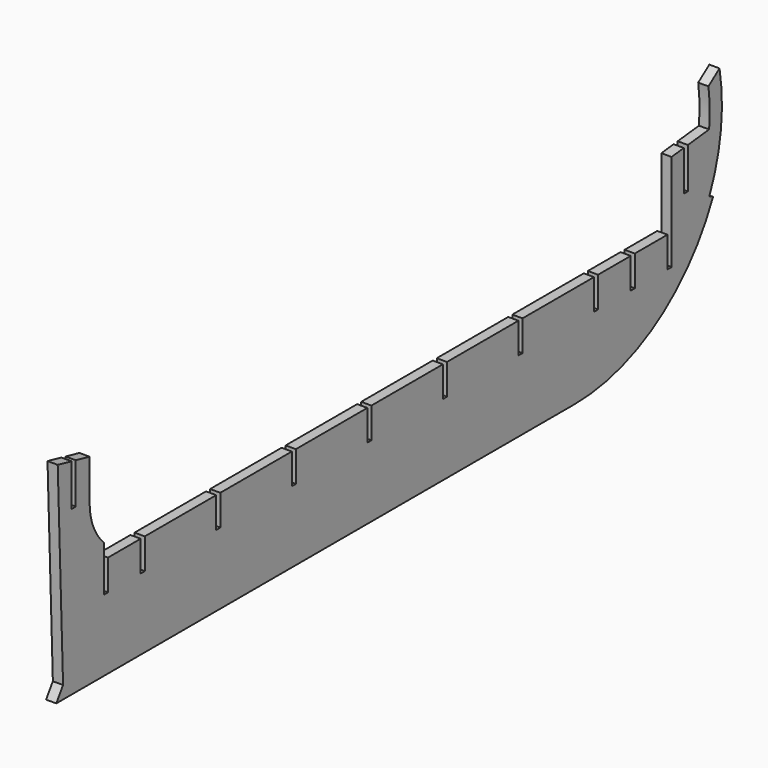
from build123d import *

# Parameters (mm, degrees)
F1_DEPTH = 3.175


with BuildPart() as f1:
    # F0 (on Right) → F1 (new body, symmetric)
    with BuildSketch(Plane.YZ):
        with BuildLine():
            Line((-196.347358, 7.9375), (-201.6125, 0))
            Line((-201.6125, 0), (0, 0))
            Line((0, 0), (201.6125, 0))
            ThreePointArc((201.6125, 0), (265.665715, 18.998804), (309.000744, 69.85))
            Line((309.000744, 69.85), (306.098359, 71.137162))
            ThreePointArc((306.098359, 71.137162), (315.118534, 104.026198), (314.033955, 138.1125))
            Line((314.033955, 138.1125), (305.408781, 131.7625))
            ThreePointArc((305.408781, 131.7625), (306.360083, 119.871784), (305.953647, 107.95))
            Line((305.953647, 107.95), (289.446713, 106.15558))
            Line((289.446713, 106.15558), (289.446713, 80.75558))
            Line((289.446713, 80.75558), (286.271713, 80.75558))
            Line((286.271713, 80.75558), (286.271713, 105.810435))
            Line((286.271713, 105.810435), (276.746713, 104.775))
            Line((276.746713, 104.775), (276.746713, 44.45))
            Line((276.746713, 44.45), (273.571713, 44.45))
            Line((273.571713, 44.45), (273.571713, 63.5))
            Line((273.571713, 63.5), (248.171713, 63.5))
            Line((248.171713, 63.5), (248.171713, 44.45))
            Line((248.171713, 44.45), (244.996713, 44.45))
            Line((244.996713, 44.45), (244.996713, 63.5))
            Line((244.996713, 63.5), (219.596713, 63.5))
            Line((219.596713, 63.5), (219.596713, 44.45))
            Line((219.596713, 44.45), (216.421713, 44.45))
            Line((216.421713, 44.45), (216.421713, 63.5))
            Line((216.421713, 63.5), (160.859213, 63.5))
            Line((160.859213, 63.5), (160.859213, 44.45))
            Line((160.859213, 44.45), (157.684213, 44.45))
            Line((157.684213, 44.45), (157.684213, 63.5))
            Line((157.684213, 63.5), (102.121713, 63.5))
            Line((102.121713, 63.5), (102.121713, 44.45))
            Line((102.121713, 44.45), (98.946713, 44.45))
            Line((98.946713, 44.45), (98.946713, 63.5))
            Line((98.946713, 63.5), (43.384213, 63.5))
            Line((43.384213, 63.5), (43.384213, 44.45))
            Line((43.384213, 44.45), (40.209213, 44.45))
            Line((40.209213, 44.45), (40.209213, 63.5))
            Line((40.209213, 63.5), (-15.353287, 63.5))
            Line((-15.353287, 63.5), (-15.353287, 44.45))
            Line((-15.353287, 44.45), (-18.528287, 44.45))
            Line((-18.528287, 44.45), (-18.528287, 63.5))
            Line((-18.528287, 63.5), (-74.090787, 63.5))
            Line((-74.090787, 63.5), (-74.090787, 44.45))
            Line((-74.090787, 44.45), (-77.265787, 44.45))
            Line((-77.265787, 44.45), (-77.265787, 63.5))
            Line((-77.265787, 63.5), (-132.828287, 63.5))
            Line((-132.828287, 63.5), (-132.828287, 44.45))
            Line((-132.828287, 44.45), (-136.003287, 44.45))
            Line((-136.003287, 44.45), (-136.003287, 63.5))
            Line((-136.003287, 63.5), (-161.403287, 63.5))
            Line((-161.403287, 63.5), (-161.403287, 44.45))
            Line((-161.403287, 44.45), (-164.578287, 44.45))
            Line((-164.578287, 44.45), (-164.578287, 73.025))
            ThreePointArc((-164.578287, 73.025), (-172.79719, 84.952506), (-175.690787, 99.145562))
            Line((-175.690787, 99.145562), (-175.690787, 124.545562))
            Line((-175.690787, 124.545562), (-186.505726, 127))
            Line((-186.505726, 127), (-186.505726, 101.6))
            Line((-186.505726, 101.6), (-189.680726, 101.6))
            Line((-189.680726, 101.6), (-189.680726, 127.720562))
            Line((-189.680726, 127.720562), (-200.495665, 130.175))
            Line((-200.495665, 130.175), (-196.347358, 7.9375))
        make_face()
    extrude(amount=F1_DEPTH, both=True)


solid = f1.part
